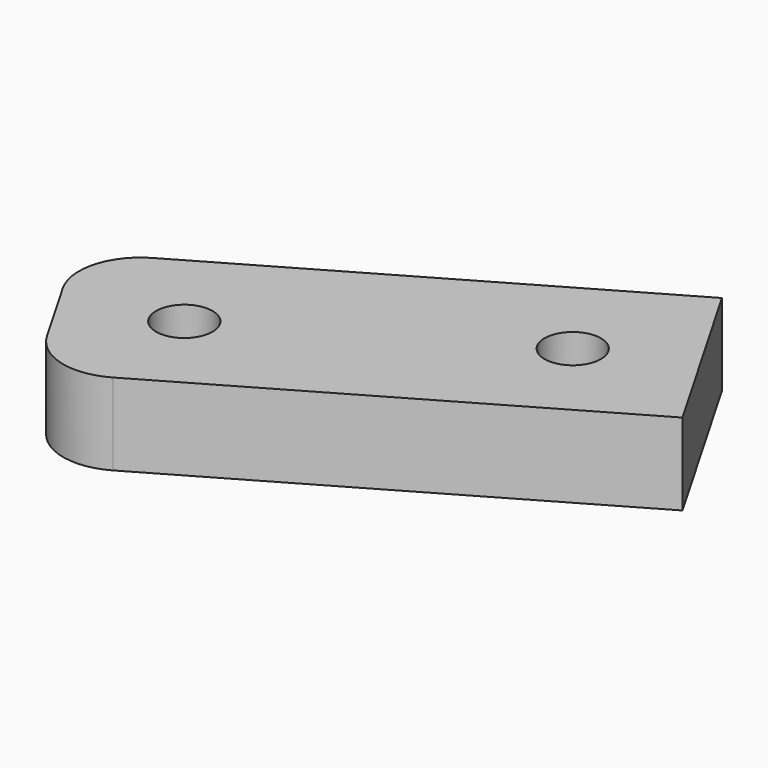
from build123d import *

# Parameters (mm, degrees)
CYLINDER065_R          = 1.38
CYLINDER065_DEPTH      = 10
CYLINDER064_R          = 1.38
CYLINDER064_DEPTH      = 10
BOX038_W               = 25
BOX038_H               = 10
BOX038_DEPTH           = 4
CUT036_PLACEMENT_ANGLE = 30
FILLET004_R            = 3


with BuildPart() as cylinder065:
    # Cylinder065 → Cylinder065 (new body)
    with BuildSketch(Plane(origin=(25, 52, 59), x_dir=(1, 0, 0), z_dir=(0, 0, 1))):
        Circle(CYLINDER065_R)
    extrude(amount=CYLINDER065_DEPTH)


with BuildPart() as cylinder064:
    # Cylinder064 → Cylinder064 (new body)
    with BuildSketch(Plane(origin=(40, 52, 59), x_dir=(1, 0, 0), z_dir=(0, 0, 1))):
        Circle(CYLINDER064_R)
    extrude(amount=CYLINDER064_DEPTH)


with BuildPart() as fillet004:
    # Box038 → Box038 (new body)
    with BuildSketch(Plane(origin=(45, 57, 62), x_dir=(-1, 0, 0), z_dir=(0, 0, 1))):
        with Locations((12.5, 5)):
            Rectangle(BOX038_W, BOX038_H)
    extrude(amount=BOX038_DEPTH)

    # Cut037: cut Cylinder064
    add(cylinder064.part, mode=Mode.SUBTRACT)

    # Cut036: cut Cylinder065
    add(cylinder065.part, mode=Mode.SUBTRACT)


with BuildPart() as fillet004_1:
    # Cut036 placement: moved
    add(fillet004.part.moved(Location((31.35, -13.05, 0))).rotate(Axis((31.35, -13.05, 0), (0, 0, 1)), CUT036_PLACEMENT_ANGLE))

    # Fillet004
    fillet004_edges = [fillet004_1.edges().sort_by_distance(p)[0] for p in [
        (20.170508, 46.313448, 64),
        (25.170508, 37.653194, 64),
    ]]
    fillet(fillet004_edges, radius=FILLET004_R)


with BuildPart() as fillet004_2:
    # Fillet004 placement: moved
    add(fillet004_1.part.moved(Location((-2, 129, 0))))


solid = fillet004_2.part
